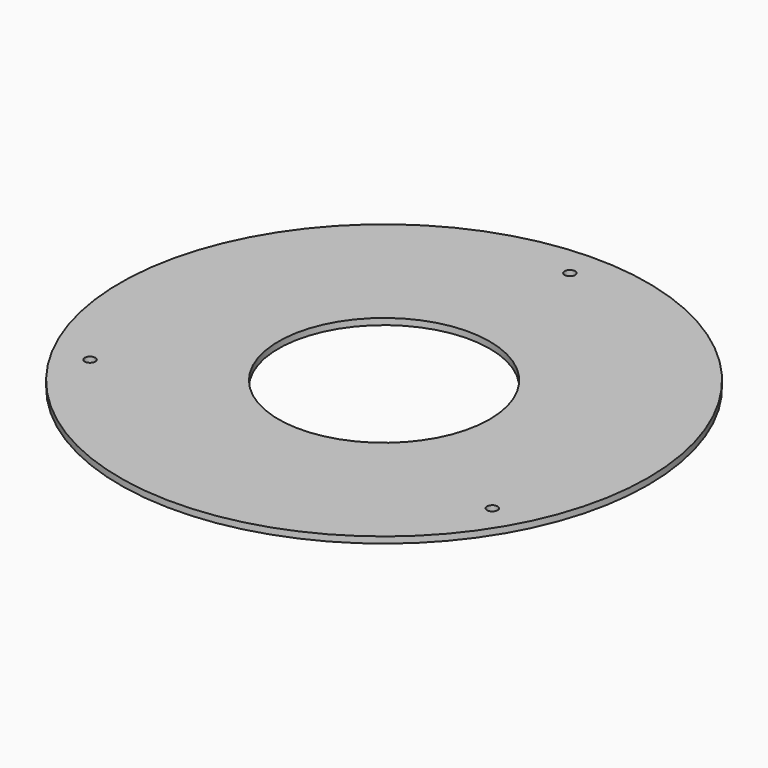
from build123d import *

# Parameters (mm, degrees)
F0_R     = 125
F0_R_2   = 50
F1_DEPTH = 3
F3_D     = 5


with BuildPart() as f1:
    # F0 (on Top) → F1 (new body)
    with BuildSketch(Plane.XY):
        Circle(F0_R)
        Circle(F0_R_2, mode=Mode.SUBTRACT)
    extrude(amount=F1_DEPTH)

    # F3 (through all)
    with Locations(Plane.XY.offset(3)):
        with Locations((0, 110), (95.262794, -55), (-95.262794, -55)):
            Hole(F3_D / 2)


solid = f1.part
